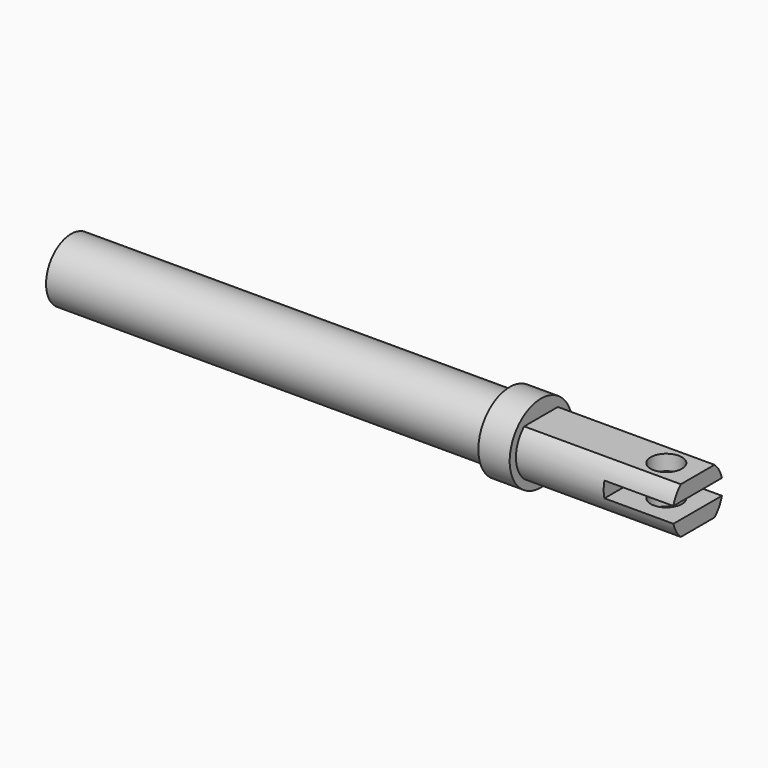
from build123d import *

# Parameters (mm, degrees)
F0_R     = 2.54
F1_DEPTH = 50.8
F3_DEPTH = 12.7
F4_W     = 5.3957496343
F4_H     = 1.27
F5_DEPTH = 5.588
F6_R     = 1.27
F7_DEPTH = 25.4
F9_START = -12.7
F8_R     = 3.175
F9_DEPTH = 2.54


with BuildPart() as f1:
    # F0 (on Right) → F1 (new body)
    with BuildSketch(Plane.YZ):
        Circle(F0_R)
    extrude(amount=F1_DEPTH)

    # F2 (on face) → F3 (cut)
    with BuildSketch(Plane.YZ.offset(50.8)):
        with BuildLine():
            Line((1.7070901198, -3.1991907798), (1.7070901198, -1.8808092202))
            ThreePointArc((1.7070901198, -1.8808092202), (0, -2.54), (-1.7070901198, -1.8808092202))
            Line((-1.7070901198, -1.8808092202), (-1.7070901198, -3.1991907798))
            Line((-1.7070901198, -3.1991907798), (1.7070901198, -3.1991907798))
        make_face()
        with BuildLine():
            ThreePointArc((-1.7070901198, -1.8808092202), (0, -2.54), (1.7070901198, -1.8808092202))
            Line((1.7070901198, -1.8808092202), (-1.7070901198, -1.8808092202))
        make_face()
        with BuildLine():
            Line((-1.7070901198, 1.8808092202), (1.7070901198, 1.8808092202))
            ThreePointArc((1.7070901198, 1.8808092202), (0, 2.54), (-1.7070901198, 1.8808092202))
        make_face()
        with BuildLine():
            ThreePointArc((-1.7070901198, 1.8808092202), (0, 2.54), (1.7070901198, 1.8808092202))
            Line((1.7070901198, 1.8808092202), (1.7070901198, 3.1991907798))
            Line((1.7070901198, 3.1991907798), (-1.7070901198, 3.1991907798))
            Line((-1.7070901198, 3.1991907798), (-1.7070901198, 1.8808092202))
        make_face()
    extrude(amount=-F3_DEPTH, mode=Mode.SUBTRACT)

    # F4 (on face) → F5 (cut)
    with BuildSketch(Plane.YZ.offset(50.8)):
        Rectangle(F4_W, F4_H)
    extrude(amount=-F5_DEPTH, mode=Mode.SUBTRACT)

    # F6 (on face) → F7 (cut)
    with BuildSketch(Plane.XY.offset(1.8808092202)):
        with Locations((48.26, 0)):
            Circle(F6_R)
    extrude(amount=-F7_DEPTH, mode=Mode.SUBTRACT)

    # F8 (on face) → F9 (join)
    with BuildSketch(Plane.YZ.offset(50.8).offset(F9_START)):
        Circle(F8_R)
        with BuildLine():
            Line((2.4593444248, 0.635), (-2.4593444248, 0.635))
            ThreePointArc((-2.4593444248, 0.635), (-2.1743514797, 1.3129339827), (-1.7070901198, 1.8808092202))
            Line((-1.7070901198, 1.8808092202), (1.7070901198, 1.8808092202))
            ThreePointArc((1.7070901198, 1.8808092202), (2.1743514797, 1.3129339827), (2.4593444248, 0.635))
        make_face(mode=Mode.SUBTRACT)
    extrude(amount=-F9_DEPTH)


solid = f1.part
